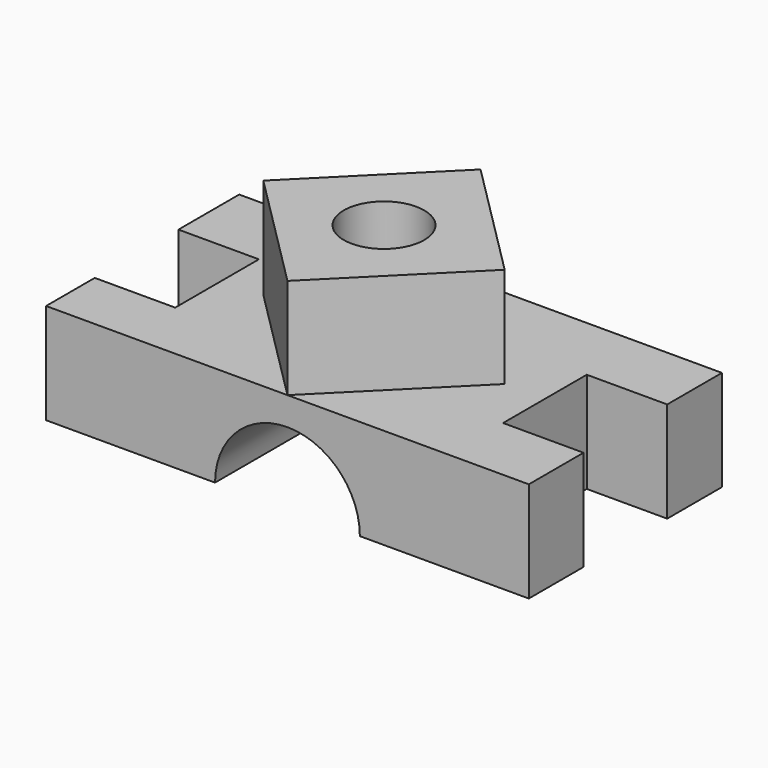
from build123d import *

# Parameters (mm, degrees)
F0_W      = 3048
F0_H      = 1524
F1_DEPTH  = 635
F3_DEPTH  = 635
F4_W      = 1016
F4_H      = 660.4
F5_DEPTH  = 986.6277
F6_W      = 1016
F6_H      = 660.4
F7_DEPTH  = 635.001
F8_R      = 457.2
F9_DEPTH  = 1524.001
F10_R     = 254
F11_DEPTH = 1270.001


with BuildPart() as f1:
    # F0 (on Top) → F1 (new body)
    with BuildSketch(Plane.XY):
        Rectangle(F0_W, F0_H)
    extrude(amount=F1_DEPTH)

    # F2 (on face) → F3 (join)
    with BuildSketch(Plane.XY.offset(635)):
        Polygon((762, 0), (0, 762), (-762, 0), (0, -762), align=None)
    extrude(amount=F3_DEPTH)

    # F4 (on face) → F5 (cut)
    with BuildSketch(Plane(origin=(0, 0, 0), x_dir=(1, 0, 0), z_dir=(0, 0, -1))):
        with Locations((-1524, 47.693055)):
            Rectangle(F4_W, F4_H)
    extrude(amount=-F5_DEPTH, mode=Mode.SUBTRACT)

    # F6 (on face) → F7 (cut, through all)
    with BuildSketch(Plane.XY.offset(635)):
        with Locations((1524, 0)):
            Rectangle(F6_W, F6_H)
    extrude(amount=-F7_DEPTH, mode=Mode.SUBTRACT)

    # F8 (on face) → F9 (cut, through all)
    with BuildSketch(Plane.XZ.offset(762)):
        Circle(F8_R)
    extrude(amount=-F9_DEPTH, mode=Mode.SUBTRACT)

    # F10 (on face) → F11 (cut, through all)
    with BuildSketch(Plane.XY.offset(1270)):
        Circle(F10_R)
    extrude(amount=-F11_DEPTH, mode=Mode.SUBTRACT)


solid = f1.part
